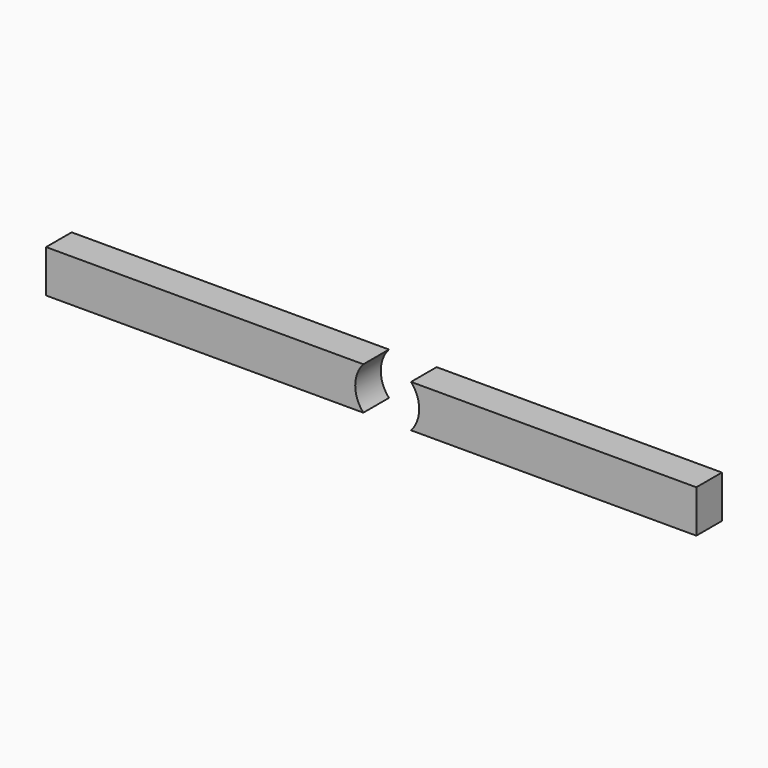
from build123d import *

# Parameters (mm, degrees)
CYLINDER869_R     = 3
CYLINDER869_DEPTH = 10
BOX420_W          = 61
BOX420_H          = 3
BOX420_DEPTH      = 4


with BuildPart() as obj1:
    # Cylinder869 → Cylinder869 (new body)
    with BuildSketch(Plane(origin=(32, 5, 32), x_dir=(1, 0, 0), z_dir=(0, -1, 0))):
        Circle(CYLINDER869_R)
    extrude(amount=CYLINDER869_DEPTH)


with BuildPart() as cut018:
    # Box420 → Box420 (new body)
    with BuildSketch(Plane.XY.offset(30)):
        with Locations((30.5, 1.5)):
            Rectangle(BOX420_W, BOX420_H)
    extrude(amount=BOX420_DEPTH)

    # Cut018: cut obj1
    add(obj1.part, mode=Mode.SUBTRACT)


solid = cut018.part
